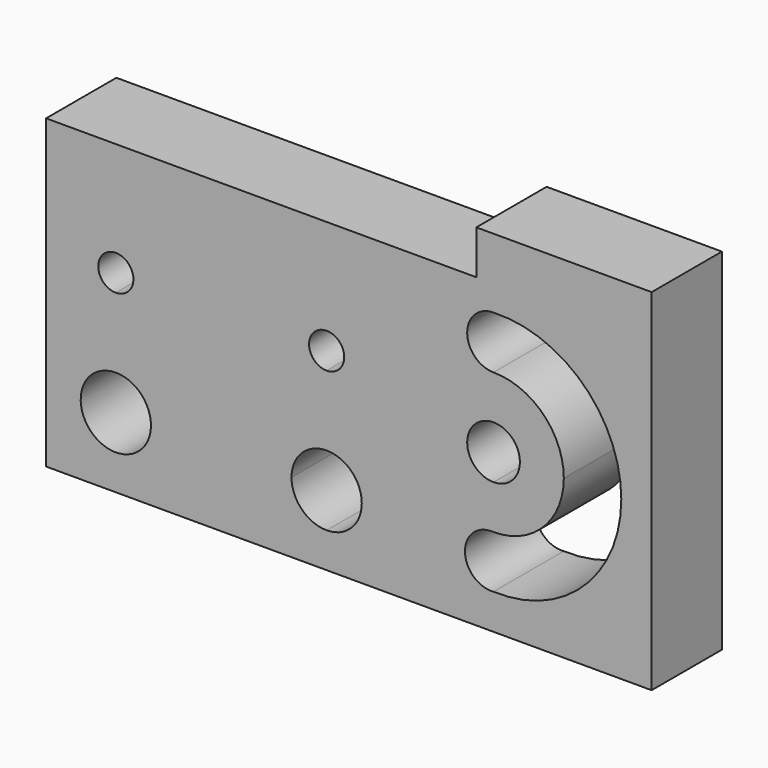
from build123d import *

# Parameters (mm, degrees)
F0_W     = 34.47
F0_H     = 19.95
F1_DEPTH = 5
F2_W     = 24.49
F2_H     = 2.5
F3_DEPTH = 5
F5_DEPTH = 5
F7_DEPTH = 5


with BuildPart() as f1:
    # F0 (on Front) → F1 (new body)
    with BuildSketch(Plane.XZ):
        Rectangle(F0_W, F0_H)
    extrude(amount=-F1_DEPTH)

    # F2 (on face) → F3 (cut, through all)
    with BuildSketch(Plane.XZ):
        with Locations((-4.99, 8.725)):
            Rectangle(F2_W, F2_H)
    extrude(amount=-F3_DEPTH, mode=Mode.SUBTRACT)

    # F4 (on face) → F5 (cut, through all)
    with BuildSketch(Plane.XZ):
        with BuildLine():
            ThreePointArc((-3.265, -5.975), (-2.679214, -7.389214), (-1.265, -7.975))
            Line((-1.265, -7.975), (-1.265, -5.975))
            Line((-1.265, -5.975), (-3.265, -5.975))
        make_face()
        with BuildLine():
            ThreePointArc((-12.265, 1.025), (-13.972107, 1.732107), (-13.265, 0.025))
            ThreePointArc((-13.265, 0.025), (-12.557893, 0.317893), (-12.265, 1.025))
        make_face()
        with BuildLine():
            ThreePointArc((-13.265, -3.975), (-14.679214, -7.389214), (-11.265, -5.975))
            Line((-11.265, -5.975), (-13.265, -5.975))
            Line((-13.265, -5.975), (-13.265, -3.975))
        make_face()
        with BuildLine():
            Line((-13.265, -5.975), (-11.265, -5.975))
            ThreePointArc((-11.265, -5.975), (-11.850786, -4.560786), (-13.265, -3.975))
            Line((-13.265, -3.975), (-13.265, -5.975))
        make_face()
        with BuildLine():
            ThreePointArc((-0.265, 1.025), (-1.972107, 1.732107), (-1.265, 0.025))
            ThreePointArc((-1.265, 0.025), (-0.557893, 0.317893), (-0.265, 1.025))
        make_face()
        with BuildLine():
            Line((-1.265, -5.975), (-1.265, -7.975))
            ThreePointArc((-1.265, -7.975), (0.149214, -7.389214), (0.735, -5.975))
            ThreePointArc((0.735, -5.975), (0.149214, -4.560786), (-1.265, -3.975))
            Line((-1.265, -3.975), (-1.265, -5.975))
        make_face()
        with BuildLine():
            Line((-3.265, -5.975), (-1.265, -5.975))
            Line((-1.265, -5.975), (-1.265, -3.975))
            ThreePointArc((-1.265, -3.975), (-2.679214, -4.560786), (-3.265, -5.975))
        make_face()
    extrude(amount=-F5_DEPTH, mode=Mode.SUBTRACT)

    # F6 (on face) → F7 (cut, through all)
    with BuildSketch(Plane.XZ):
        with BuildLine():
            ThreePointArc((8.235, -4.975), (6.608983, -6.469697), (8.235, -7.964394))
            Line((8.235, -7.964394), (8.235, -4.975))
        make_face()
        with BuildLine():
            Line((8.235, -4.975), (8.235, -7.964394))
            ThreePointArc((8.235, -7.964394), (15.507417, -0.969697), (8.235, 6.025))
            ThreePointArc((8.235, 6.025), (6.735, 4.525), (8.235, 3.025))
            ThreePointArc((8.235, 3.025), (11.063427, 1.853427), (12.235, -0.975))
            ThreePointArc((12.235, -0.975), (11.063427, -3.803427), (8.235, -4.975))
        make_face()
        with BuildLine():
            ThreePointArc((9.735, -0.975), (7.17434, 0.08566), (8.235, -2.475))
            ThreePointArc((8.235, -2.475), (9.29566, -2.03566), (9.735, -0.975))
        make_face()
    extrude(amount=-F7_DEPTH, mode=Mode.SUBTRACT)


solid = f1.part
